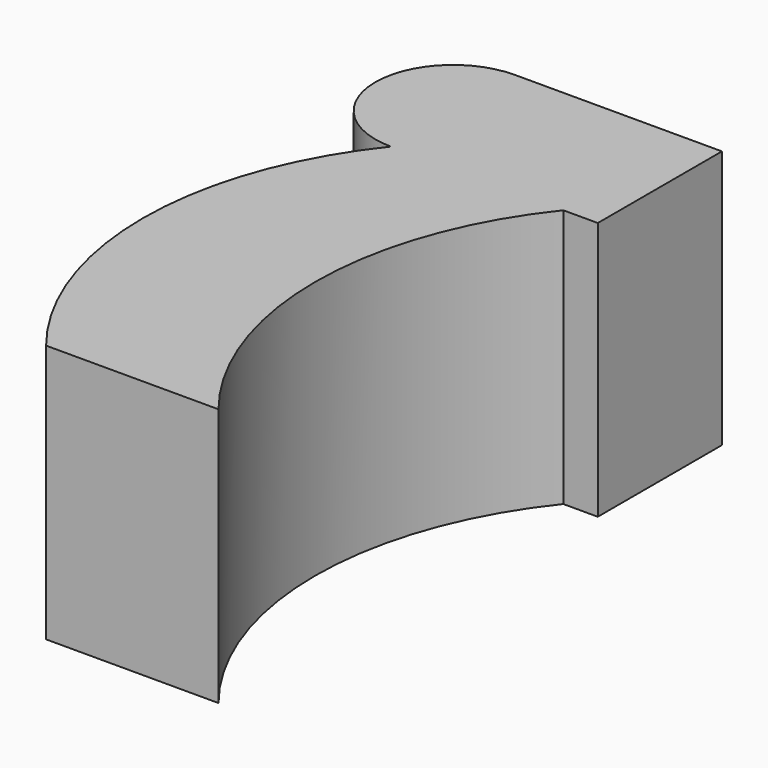
from build123d import *

# Parameters (mm, degrees)
F1_DEPTH = 15


with BuildPart() as f1:
    # F0 (on Top) → F1 (new body, symmetric)
    with BuildSketch(Plane.XY):
        with BuildLine():
            ThreePointArc((-2.918824, 16.894441), (-11.693834, -8.105559), (-2.918824, -33.105559))
            Line((-2.918824, -33.105559), (17.081176, -33.105559))
            ThreePointArc((17.081176, -33.105559), (8.306166, -8.105559), (17.081176, 16.894441))
            Line((17.081176, 16.894441), (21.081176, 16.894441))
            Line((21.081176, 16.894441), (21.081176, 34.894441))
            Line((21.081176, 34.894441), (-2.918824, 34.894441))
            ThreePointArc((-2.918824, 34.894441), (-11.918824, 25.894441), (-2.918824, 16.894441))
        make_face()
    extrude(amount=F1_DEPTH, both=True)


solid = f1.part
